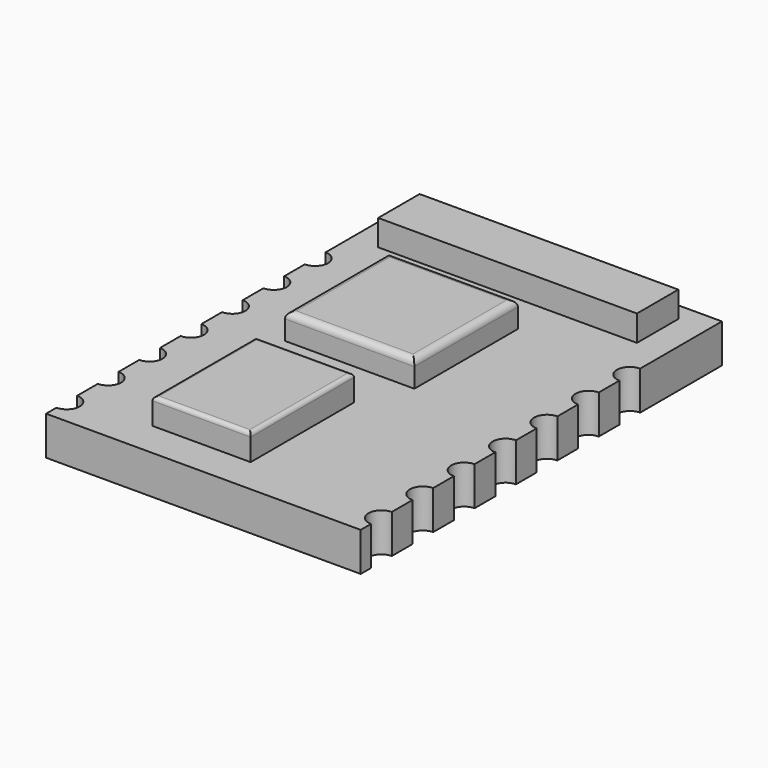
from build123d import *

# Parameters (mm, degrees)
F0_W     = 12.16
F0_H     = 17.45
F1_DEPTH = 1.5
F3_R     = 0.5
F4_DEPTH = 1.501
F2_W     = 5
F2_H     = 5
F2_W_2   = 3.8
F2_W_3   = 10
F2_H_2   = 2
F5_DEPTH = 1
F6_R     = 0.25
F7_R     = 0.15


with BuildPart() as f1:
    # F0 (on Top) → F1 (new body)
    with BuildSketch(Plane.XY):
        with Locations((20.977421, -24.602963)):
            Rectangle(F0_W, F0_H)
    extrude(amount=F1_DEPTH)

    # F3 (on face) → F4 (cut, through all)
    with BuildSketch(Plane.XY.offset(1.5)):
        with Locations((14.897421, -32.327963)):
            Circle(F3_R)
        with Locations((27.057421, -32.327963)):
            Circle(F3_R)
        with Locations((14.897421, -30.327963)):
            Circle(F3_R)
        with Locations((27.057421, -30.327963)):
            Circle(F3_R)
        with Locations((14.897421, -28.327963)):
            Circle(F3_R)
        with Locations((27.057421, -28.327963)):
            Circle(F3_R)
        with Locations((14.897421, -26.327963)):
            Circle(F3_R)
        with Locations((27.057421, -26.327963)):
            Circle(F3_R)
        with Locations((14.897421, -24.327963)):
            Circle(F3_R)
        with Locations((27.057421, -24.327963)):
            Circle(F3_R)
        with Locations((14.897421, -22.327963)):
            Circle(F3_R)
        with Locations((27.057421, -22.327963)):
            Circle(F3_R)
        with Locations((14.897421, -20.327963)):
            Circle(F3_R)
        with Locations((27.057421, -20.327963)):
            Circle(F3_R)
    extrude(amount=-F4_DEPTH, mode=Mode.SUBTRACT)


with BuildPart() as f5:
    # F2 (on face) → F5 (new body)
    with BuildSketch(Plane.XY.offset(1.5)):
        with Locations((20.057421, -22.612158)):
            Rectangle(F2_W, F2_H)
        with Locations((19.797421, -29.445597)):
            Rectangle(F2_W_2, F2_H)
        with Locations((20.931646, -17.576346)):
            Rectangle(F2_W_3, F2_H_2)
    extrude(amount=F5_DEPTH)

    # F6
    f6_edges = [f5.edges().sort_by_distance(p)[0] for p in [
        (17.557421, -22.612158, 2.5),
        (20.057421, -25.112158, 2.5),
        (22.557421, -22.612158, 2.5),
        (20.057421, -20.112158, 2.5),
    ]]
    fillet(f6_edges, radius=F6_R)

    # F7
    f7_edges = [f5.edges().sort_by_distance(p)[0] for p in [
        (17.897421, -29.445597, 2.5),
        (19.797421, -31.945597, 2.5),
        (21.697421, -29.445597, 2.5),
        (19.797421, -26.945597, 2.5),
    ]]
    fillet(f7_edges, radius=F7_R)


solid = Compound([f1.part, f5.part])
